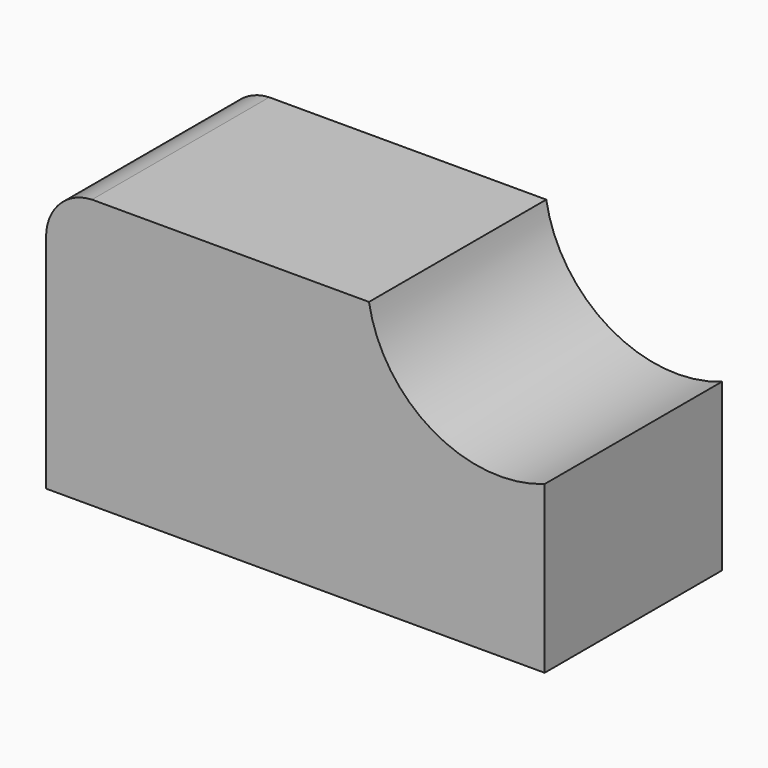
from build123d import *

# Parameters (mm, degrees)
F1_DEPTH = 25.4


with BuildPart() as f1:
    # F0 (on Front) → F1 (new body)
    with BuildSketch(Plane.XZ):
        with BuildLine():
            Line((2.19345, 25.4), (2.19345, 0))
            Line((2.19345, 0), (59.34345, 0))
            Line((59.34345, 0), (59.34345, 19.05))
            ThreePointArc((59.34345, 19.05), (46.513424, 20.262757), (39.207902, 30.87924))
            Line((39.207902, 30.87924), (7.457902, 30.87924))
            ThreePointArc((7.457902, 30.87924), (3.722837, 29.199227), (2.19345, 25.4))
        make_face()
    extrude(amount=F1_DEPTH)


solid = f1.part
